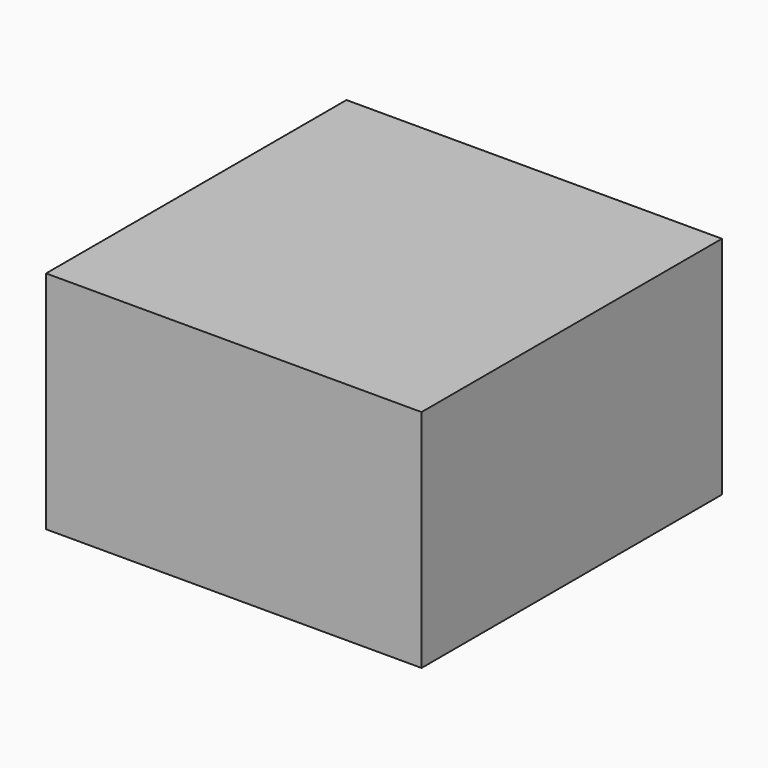
from build123d import *

# Parameters (mm, degrees)
F0_W     = 1270
F0_H     = 1270
F1_DEPTH = 762
F2_W     = 1143
F2_H     = 1143
F3_DEPTH = 711.2
F4_W     = 889
F4_H     = 889
F5_DEPTH = 76.2


with BuildPart() as f1:
    # F0 (on Top) → F1 (new body)
    with BuildSketch(Plane.XY):
        Rectangle(F0_W, F0_H)
    extrude(amount=F1_DEPTH)

    # F2 (on face) → F3 (cut)
    with BuildSketch(Plane(origin=(0, 0, 0), x_dir=(1, 0, 0), z_dir=(0, 0, -1))):
        Rectangle(F2_W, F2_H)
    extrude(amount=-F3_DEPTH, mode=Mode.SUBTRACT)


with BuildPart() as f5:
    # F4 (on face) → F5 (new body)
    with BuildSketch(Plane(origin=(0, 0, 0), x_dir=(1, 0, 0), z_dir=(0, 0, -1))):
        Rectangle(F4_W, F4_H)
    extrude(amount=-F5_DEPTH)


solid = Compound([f1.part, f5.part])
